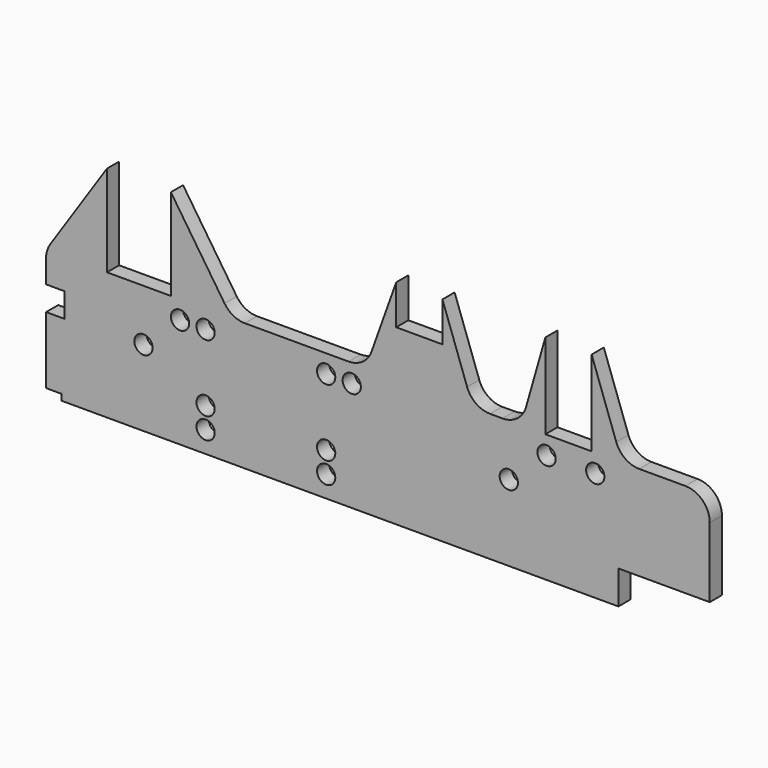
from build123d import *

# Parameters (mm, degrees)
F0_R     = 15
F1_DEPTH = 25


with BuildPart() as f1:
    # F0 (on Front) → F1 (new body)
    with BuildSketch(Plane.XZ):
        with BuildLine():
            Line((100, 150), (6.717988, 10.076982))
            ThreePointArc((6.717988, 10.076982), (1.716319, -0.51966), (0, -12.111026))
            Line((0, -12.111026), (0, -50))
            Line((0, -50), (30, -50))
            Line((30, -50), (30, -90))
            Line((30, -90), (0, -90))
            Line((0, -90), (0, -200))
            Line((0, -200), (25, -200))
            Line((25, -200), (25, -210))
            Line((25, -210), (940, -210))
            Line((940, -210), (940, -155))
            Line((940, -155), (1090, -155))
            Line((1090, -155), (1090, -40))
            ThreePointArc((1090, -40), (1078.284271, -11.715729), (1050, 0))
            Line((1050, 0), (974.188768, 0))
            ThreePointArc((974.188768, 0), (951.14683, 7.303378), (936.519091, 26.546544))
            Line((936.519091, 26.546544), (896, 140))
            Line((896, 140), (896, 0))
            Line((896, 0), (820, 0))
            Line((820, 0), (820, 140))
            Line((820, 140), (788.288901, 29.011155))
            ThreePointArc((788.288901, 29.011155), (773.915764, 8.066054), (749.827943, 0))
            Line((749.827943, 0), (729.188768, 0))
            ThreePointArc((729.188768, 0), (706.14683, 7.303378), (691.519091, 26.546544))
            Line((691.519091, 26.546544), (651, 140))
            Line((651, 140), (651, 75))
            Line((651, 75), (575, 75))
            Line((575, 75), (575, 140))
            Line((575, 140), (534.480909, 26.546544))
            ThreePointArc((534.480909, 26.546544), (519.85317, 7.303378), (496.811232, 0))
            Line((496.811232, 0), (326.40735, 0))
            ThreePointArc((326.40735, 0), (307.533033, 4.733016), (293.125339, 17.811992))
            Line((293.125339, 17.811992), (205, 150))
            Line((205, 150), (205, 0))
            Line((205, 0), (100, 0))
            Line((100, 0), (100, 150))
        make_face()
        with Locations((262, -175)):
            Circle(F0_R, mode=Mode.SUBTRACT)
        with Locations((262, -140)):
            Circle(F0_R, mode=Mode.SUBTRACT)
        with Locations((460, -175)):
            Circle(F0_R, mode=Mode.SUBTRACT)
        with Locations((460, -140)):
            Circle(F0_R, mode=Mode.SUBTRACT)
        with Locations((160, -85)):
            Circle(F0_R, mode=Mode.SUBTRACT)
        with Locations((760, -85)):
            Circle(F0_R, mode=Mode.SUBTRACT)
        with Locations((220, -30)):
            Circle(F0_R, mode=Mode.SUBTRACT)
        with Locations((262, -30)):
            Circle(F0_R, mode=Mode.SUBTRACT)
        with Locations((460, -30)):
            Circle(F0_R, mode=Mode.SUBTRACT)
        with Locations((502, -30)):
            Circle(F0_R, mode=Mode.SUBTRACT)
        with Locations((822, -30)):
            Circle(F0_R, mode=Mode.SUBTRACT)
        with Locations((902, -30)):
            Circle(F0_R, mode=Mode.SUBTRACT)
    extrude(amount=F1_DEPTH)


solid = f1.part
